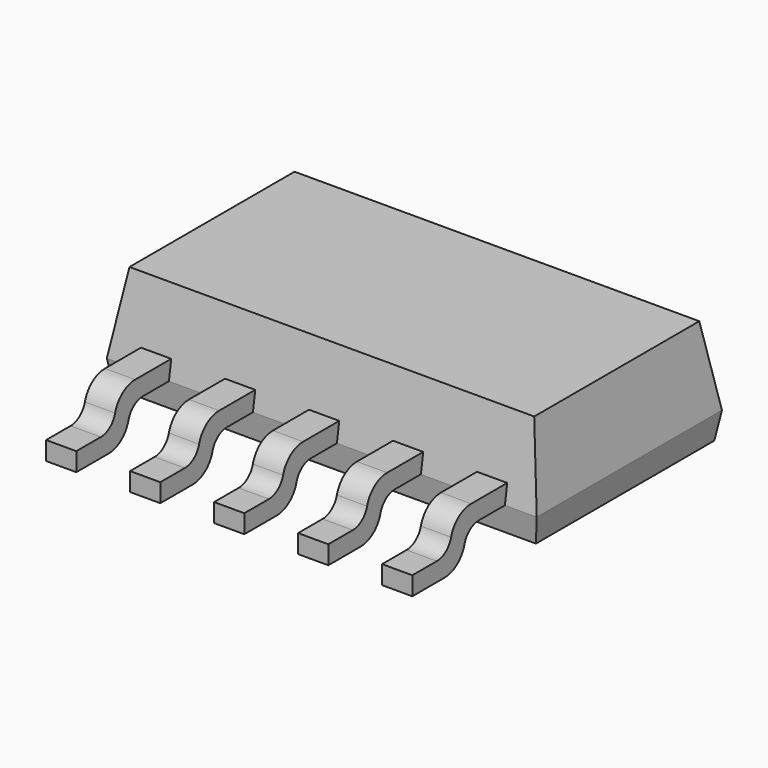
from build123d import *

# Parameters (mm, degrees)
F3_W      = 3
F3_H      = 1.5215
F3_W_2    = 0.813
F3_W_3    = 0.457
F3_H_2    = 0.2285
F4_DEPTH  = 1.2
F4_TAPER  = 9
F4_FACE_W = 6.5
F4_FACE_H = 3.5
F5_DEPTH  = 0.4
F5_TAPER  = 9
F3_H_3    = 0.75
F3_H_4    = 0.28
F6_DEPTH  = 0.28
F3_H_5    = 0.72
F7_DEPTH  = 0.5
F8_DEPTH  = 0.22
F9_R      = 0.392
F10_R     = 0.28


with BuildPart() as f4:
    # F3 (on Top) → F4 (new body)
    with BuildSketch(Plane.XY):
        Polygon((2.7685, -1.75), (3.25, -1.75), (3.25, 1.75), (1.5, 1.75), (1.5, 0.2285), (2.7685, 0.2285), (2.7685, 0), (2.7685, -0.2285), align=None)
        with Locations((0, 0.98925)):
            Rectangle(F3_W, F3_H)
        with Locations((1.905, -0.98925)):
            Rectangle(F3_W_2, F3_H)
        Polygon((1.5, 0), (1.5, 0.2285), (-1.5, 0.2285), (-1.5, 0), (-1.4985, 0), (-1.0415, 0), (-0.2285, 0), (0.2285, 0), (1.0415, 0), (1.4985, 0), align=None)
        with Locations((2.54, -0.98925)):
            Rectangle(F3_W_3, F3_H)
        with Locations((0, -0.98925)):
            Rectangle(F3_W_3, F3_H)
        with Locations((0, -0.11425)):
            Rectangle(F3_W_3, F3_H_2)
        with Locations((-0.635, -0.98925)):
            Rectangle(F3_W_2, F3_H)
        Polygon((-1.5, 0.2285), (-1.5, 1.75), (-3.25, 1.75), (-3.25, -1.75), (-2.7685, -1.75), (-2.7685, -0.2285), (-2.7685, 0), (-2.7685, 0.2285), align=None)
        with Locations((-2.54, -0.98925)):
            Rectangle(F3_W_3, F3_H)
        with Locations((0.635, -0.11425)):
            Rectangle(F3_W_2, F3_H_2)
        with Locations((0.635, -0.98925)):
            Rectangle(F3_W_2, F3_H)
        with Locations((1.27, -0.98925)):
            Rectangle(F3_W_3, F3_H)
        Polygon((1.4985, -0.2285), (2.3115, -0.2285), (2.3115, 0), (2.7685, 0), (2.7685, 0.2285), (1.5, 0.2285), (1.5, 0), (1.4985, 0), align=None)
        with Locations((1.27, -0.11425)):
            Rectangle(F3_W_3, F3_H_2)
        with Locations((-0.635, -0.11425)):
            Rectangle(F3_W_2, F3_H_2)
        with Locations((-1.27, -0.98925)):
            Rectangle(F3_W_3, F3_H)
        with Locations((-1.27, -0.11425)):
            Rectangle(F3_W_3, F3_H_2)
        Polygon((-1.5, 0), (-1.5, 0.2285), (-2.7685, 0.2285), (-2.7685, 0), (-2.3115, 0), (-2.3115, -0.2285), (-1.4985, -0.2285), (-1.4985, 0), align=None)
        with Locations((-1.905, -0.98925)):
            Rectangle(F3_W_2, F3_H)
        with Locations((-2.54, -0.11425)):
            Rectangle(F3_W_3, F3_H_2)
        with Locations((2.54, -0.11425)):
            Rectangle(F3_W_3, F3_H_2)
    extrude(amount=F4_DEPTH, taper=F4_TAPER)

    # F4_face (on face) → F5 (join)
    with BuildSketch(Plane(origin=(0, 0, 0), x_dir=(1, 0, 0), z_dir=(0, 0, -1))):
        Rectangle(F4_FACE_W, F4_FACE_H)
    extrude(amount=F5_DEPTH, taper=F5_TAPER)


with BuildPart() as f6:
    # F3 (on Top) → F6 (new body)
    with BuildSketch(Plane.XY):
        with Locations((0, 0.98925)):
            Rectangle(F3_W, F3_H)
        with Locations((-1.27, -0.98925)):
            Rectangle(F3_W_3, F3_H)
        with Locations((-1.27, -2.125)):
            Rectangle(F3_W_3, F3_H_3)
        Polygon((-1.5, 0), (-1.5, 0.2285), (-2.7685, 0.2285), (-2.7685, 0), (-2.3115, 0), (-2.3115, -0.2285), (-1.4985, -0.2285), (-1.4985, 0), align=None)
        with Locations((-1.27, -0.11425)):
            Rectangle(F3_W_3, F3_H_2)
        with Locations((-0.635, -0.11425)):
            Rectangle(F3_W_2, F3_H_2)
        Polygon((1.5, 0), (1.5, 0.2285), (-1.5, 0.2285), (-1.5, 0), (-1.4985, 0), (-1.0415, 0), (-0.2285, 0), (0.2285, 0), (1.0415, 0), (1.4985, 0), align=None)
        with Locations((-2.54, -0.11425)):
            Rectangle(F3_W_3, F3_H_2)
        with Locations((-2.54, -0.98925)):
            Rectangle(F3_W_3, F3_H)
        with Locations((-2.54, -2.125)):
            Rectangle(F3_W_3, F3_H_3)
        with Locations((-2.54, -2.64)):
            Rectangle(F3_W_3, F3_H_4)
        with Locations((-1.27, -2.64)):
            Rectangle(F3_W_3, F3_H_4)
        with Locations((0, -2.125)):
            Rectangle(F3_W_3, F3_H_3)
        with Locations((0, -0.98925)):
            Rectangle(F3_W_3, F3_H)
        with Locations((0, -2.64)):
            Rectangle(F3_W_3, F3_H_4)
        with Locations((1.27, -2.125)):
            Rectangle(F3_W_3, F3_H_3)
        with Locations((1.27, -0.98925)):
            Rectangle(F3_W_3, F3_H)
        with Locations((1.27, -2.64)):
            Rectangle(F3_W_3, F3_H_4)
        with Locations((2.54, -2.125)):
            Rectangle(F3_W_3, F3_H_3)
        with Locations((2.54, -2.64)):
            Rectangle(F3_W_3, F3_H_4)
        with Locations((2.54, -0.98925)):
            Rectangle(F3_W_3, F3_H)
        with Locations((2.54, -0.11425)):
            Rectangle(F3_W_3, F3_H_2)
        Polygon((1.4985, -0.2285), (2.3115, -0.2285), (2.3115, 0), (2.7685, 0), (2.7685, 0.2285), (1.5, 0.2285), (1.5, 0), (1.4985, 0), align=None)
        with Locations((1.27, -0.11425)):
            Rectangle(F3_W_3, F3_H_2)
        with Locations((0, -0.11425)):
            Rectangle(F3_W_3, F3_H_2)
        with Locations((0.635, -0.11425)):
            Rectangle(F3_W_2, F3_H_2)
        with Locations((0, 2.125)):
            Rectangle(F3_W, F3_H_3)
        with Locations((0, 2.64)):
            Rectangle(F3_W, F3_H_4)
    extrude(amount=F6_DEPTH)

    # F3 (on Top) → F7 (join)
    with BuildSketch(Plane.XY):
        with Locations((2.54, -2.64)):
            Rectangle(F3_W_3, F3_H_4)
        with Locations((2.54, -3.14)):
            Rectangle(F3_W_3, F3_H_5)
        with Locations((1.27, -2.64)):
            Rectangle(F3_W_3, F3_H_4)
        with Locations((1.27, -3.14)):
            Rectangle(F3_W_3, F3_H_5)
        with Locations((0, -3.14)):
            Rectangle(F3_W_3, F3_H_5)
        with Locations((0, -2.64)):
            Rectangle(F3_W_3, F3_H_4)
        with Locations((-1.27, -2.64)):
            Rectangle(F3_W_3, F3_H_4)
        with Locations((-1.27, -3.14)):
            Rectangle(F3_W_3, F3_H_5)
        with Locations((-2.54, -2.64)):
            Rectangle(F3_W_3, F3_H_4)
        with Locations((-2.54, -3.14)):
            Rectangle(F3_W_3, F3_H_5)
        with Locations((0, 3.14)):
            Rectangle(F3_W, F3_H_5)
        with Locations((0, 2.64)):
            Rectangle(F3_W, F3_H_4)
    extrude(amount=-F7_DEPTH)

    # F3 (on Top) → F8 (cut)
    with BuildSketch(Plane.XY):
        with Locations((0, 3.14)):
            Rectangle(F3_W, F3_H_5)
        with Locations((-2.54, -3.14)):
            Rectangle(F3_W_3, F3_H_5)
        with Locations((0, -3.14)):
            Rectangle(F3_W_3, F3_H_5)
        with Locations((2.54, -3.14)):
            Rectangle(F3_W_3, F3_H_5)
        with Locations((-1.27, -3.14)):
            Rectangle(F3_W_3, F3_H_5)
        with Locations((1.27, -3.14)):
            Rectangle(F3_W_3, F3_H_5)
    extrude(amount=-F8_DEPTH, mode=Mode.SUBTRACT)

    # F9
    f9_edges = [f6.edges().sort_by_distance(p)[0] for p in [
        (0, 2.78, 0.28),
        (0, 2.5, -0.5),
        (-2.54, -2.78, 0.28),
        (-1.27, -2.78, 0.28),
        (0, -2.78, 0.28),
        (1.27, -2.78, 0.28),
        (2.54, -2.78, 0.28),
        (-1.27, -2.5, -0.5),
        (-2.54, -2.5, -0.5),
        (0, -2.5, -0.5),
        (1.27, -2.5, -0.5),
        (2.54, -2.5, -0.5),
    ]]
    fillet(f9_edges, radius=F9_R)

    # F10
    f10_edges = [f6.edges().sort_by_distance(p)[0] for p in [
        (0, 2.78, -0.22),
        (0, 2.5, 0),
        (2.54, -2.5, 0),
        (1.27, -2.5, 0),
        (0, -2.5, 0),
        (-1.27, -2.5, 0),
        (-2.54, -2.5, 0),
        (-2.54, -2.78, -0.22),
        (-1.27, -2.78, -0.22),
        (0, -2.78, -0.22),
        (1.27, -2.78, -0.22),
        (2.54, -2.78, -0.22),
    ]]
    fillet(f10_edges, radius=F10_R)


solid = Compound([f4.part, f6.part])
